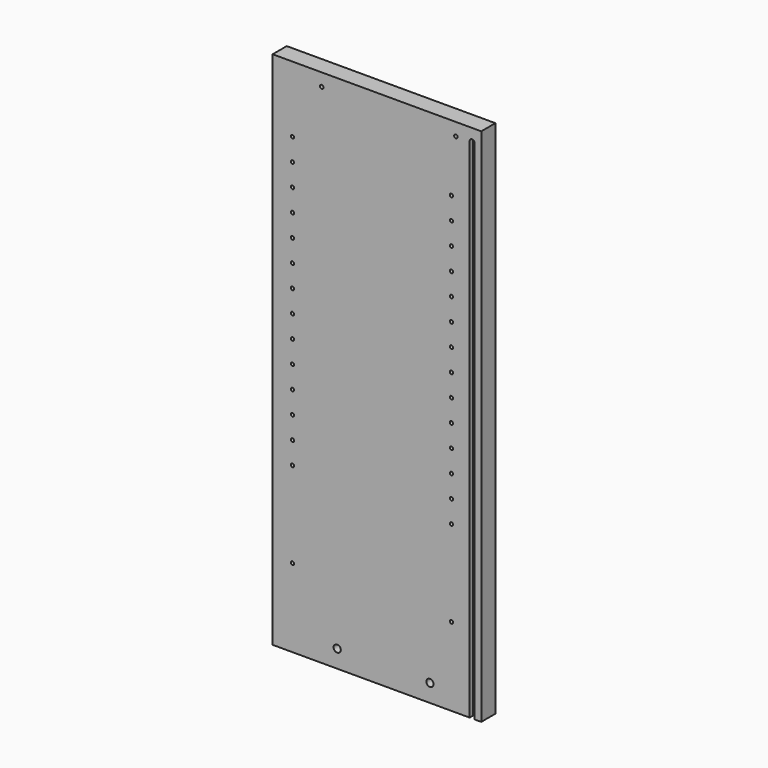
from build123d import *

# Parameters (mm, degrees)
F0_W     = 300.0375
F0_H     = 747.7125
F1_DEPTH = 25.4
F3_D     = 4.7625
F3_DEPTH = 15.875
F3_TIP   = 1.4307993491
F5_DEPTH = 6.35
F6_R     = 5.159375
F7_DEPTH = 22.225
F9_D     = 5.00126
F9_DEPTH = 15.875
F9_TIP   = 1.5025300898


with BuildPart() as f1:
    # F0 (on Front) → F1 (new body)
    with BuildSketch(Plane.XZ):
        with Locations((-150.01875, 373.85625)):
            Rectangle(F0_W, F0_H)
    extrude(amount=F1_DEPTH)

    # F3
    with Locations(Plane.XZ.offset(25.4)):
        with Locations((-271.4625, 112.7125), (-42.8625, 112.7125), (-271.4625, 236.5375), (-271.4625, 268.53642), (-42.8625, 236.5375), (-42.8625, 268.53642), (-42.8625, 300.53534), (-271.4625, 300.53534), (-271.4625, 332.53426), (-271.4625, 364.53318), (-271.4625, 396.5321), (-271.4625, 428.53102), (-271.4625, 460.52994), (-271.4625, 492.52886), (-271.4625, 524.52778), (-271.4625, 556.5267), (-271.4625, 620.52454), (-271.4625, 652.52346), (-42.8625, 332.53426), (-42.8625, 364.53318), (-42.8625, 396.5321), (-42.8625, 428.53102), (-42.8625, 364.53318), (-42.8625, 460.52994), (-42.8625, 492.52886), (-42.8625, 524.52778), (-42.8625, 556.5267), (-42.8625, 588.52562), (-42.8625, 620.52454), (-42.8625, 652.52346), (-271.4625, 588.52562)):
            Hole(F3_D / 2, depth=F3_DEPTH)
            with Locations((0, 0, -(F3_DEPTH + F3_TIP / 2))):  # 118° drill point
                Cone(0, F3_D / 2, F3_TIP, mode=Mode.SUBTRACT)

    # F4 (on face) → F5 (cut)
    with BuildSketch(Plane.XZ.offset(25.4)):
        with BuildLine():
            Line((-16.66875, 0), (-9.525, 0))
            Line((-9.525, 0), (-9.525, 729.853125))
            ThreePointArc((-9.525, 729.853125), (-13.096875, 733.425), (-16.66875, 729.853125))
            Line((-16.66875, 729.853125), (-16.66875, 0))
        make_face()
    extrude(amount=-F5_DEPTH, mode=Mode.SUBTRACT)

    # F6 (on face) → F7 (cut)
    with BuildSketch(Plane.XZ.offset(25.4)):
        with Locations((-73.81875, 25.4)):
            Circle(F6_R)
        with Locations((-207.16875, 25.4)):
            Circle(F6_R)
    extrude(amount=-F7_DEPTH, mode=Mode.SUBTRACT)

    # F9
    with Locations(Plane.XZ.offset(25.4)):
        with Locations((-229.39375, 729.45625), (-36.5125, 729.45625)):
            Hole(F9_D / 2, depth=F9_DEPTH)
            with Locations((0, 0, -(F9_DEPTH + F9_TIP / 2))):  # 118° drill point
                Cone(0, F9_D / 2, F9_TIP, mode=Mode.SUBTRACT)


solid = f1.part
